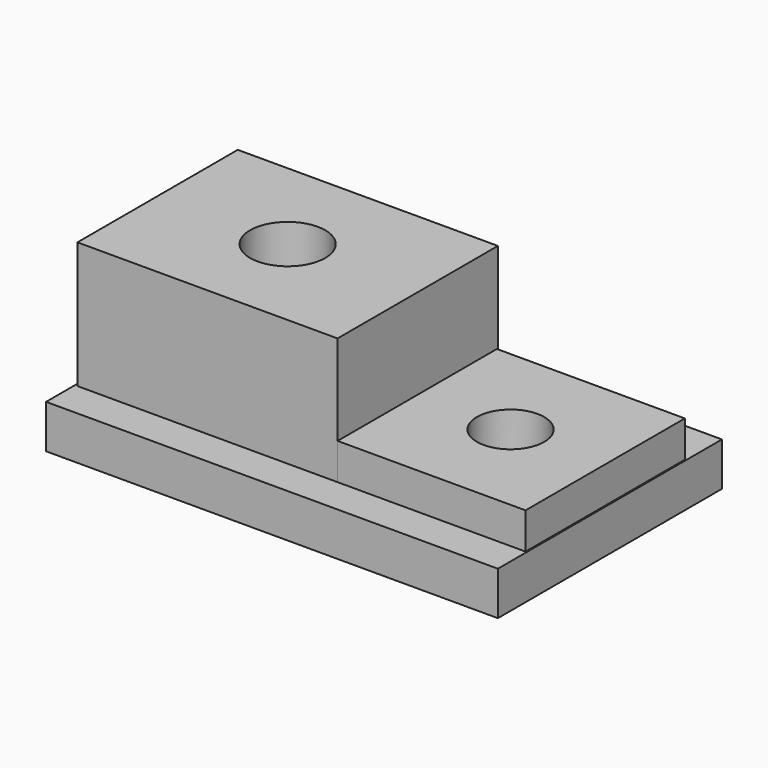
from build123d import *

# Parameters (mm, degrees)
F0_W     = 63.703202
F0_H     = 49.072805
F0_R     = 9.207281
F1_DEPTH = 30.988
F2_W     = 46.3296
F2_H     = 48.767999
F2_R     = 8.252146
F3_DEPTH = 8.89
F4_W     = 110.642403
F4_H     = 68.580005
F5_DEPTH = 10.668


with BuildPart() as f1:
    # F0 (on Top) → F1 (new body)
    with BuildSketch(Plane.XY):
        with Locations((-34.594801, 11.277599)):
            Rectangle(F0_W, F0_H)
        with Locations((-34.594801, 11.2776)):
            Circle(F0_R, mode=Mode.SUBTRACT)
    extrude(amount=F1_DEPTH)

    # F2 (on Top) → F3 (join)
    with BuildSketch(Plane.XY):
        with Locations((20.1168, 11.125199)):
            Rectangle(F2_W, F2_H)
        with Locations((20.1168, 11.125199)):
            Circle(F2_R, mode=Mode.SUBTRACT)
    extrude(amount=F3_DEPTH)

    # F4 (on face) → F5 (join)
    with BuildSketch(Plane(origin=(0, 0, 0), x_dir=(1, 0, 0), z_dir=(0, 0, -1))):
        with Locations((-11.734799, -12.192001)):
            Rectangle(F4_W, F4_H)
    extrude(amount=F5_DEPTH)


solid = f1.part
